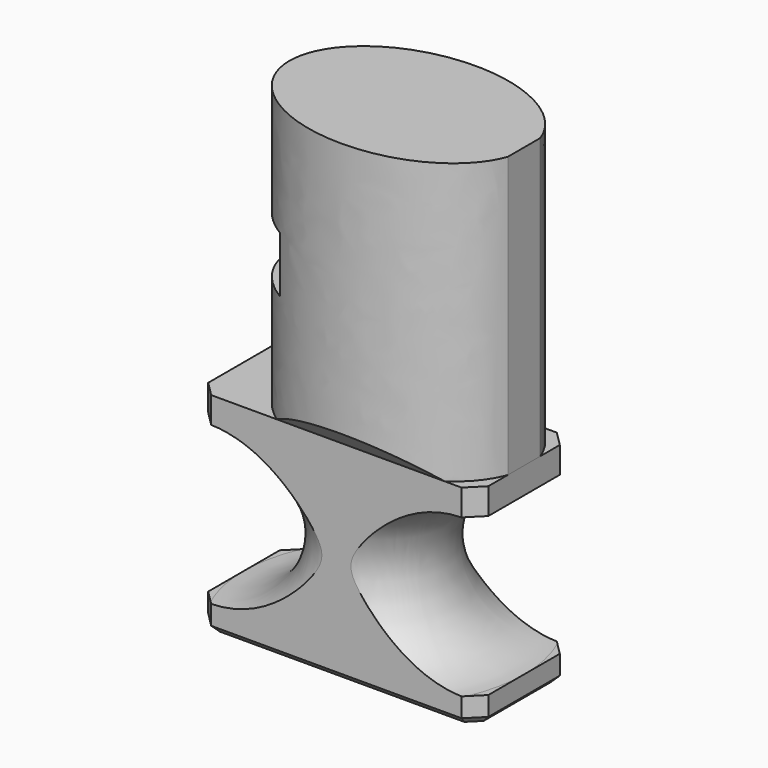
from build123d import *

# Parameters (mm, degrees)
PAD_DEPTH            = 15
SKETCH002_W          = 71.950028
SKETCH002_H          = 37.97071
POCKET_DEPTH         = 15.001
POCKET_DEPTH_BACK    = 15.001
PAD001_DEPTH         = 40
SKETCH004_W          = 12.757359
SKETCH004_H          = 12.75736
POCKET001_DEPTH      = 40.001
SKETCH005_W          = 6
SKETCH005_H          = 8
POCKET002_DEPTH      = 12.001
POCKET002_DEPTH_BACK = 12.001
POCKET003_DEPTH      = 188.238927
POCKET003_DEPTH_BACK = 188.238927
CHAMFER_SIZE         = 1


with BuildPart() as part:
    # Sketch → Pad (new body, symmetric)
    with BuildSketch(Plane.XY):
        Polygon((-20, 8.5), (20, 8.5), (20, 8.5), (20, -8.5), (-20, -8.5), align=None)
    extrude(amount=PAD_DEPTH, both=True)

    # Sketch001 → Groove (revolve, cut)
    with BuildSketch(Plane.XZ):
        with BuildLine():
            ThreePointArc((20, 11.25), (8.75, 0), (20, -11.25))
            Line((42.5, -11.25), (20, -11.25))
            Line((42.5, 11.25), (42.5, -11.25))
            Line((20, 11.25), (42.5, 11.25))
        make_face()
    revolve(axis=Axis((0, 0, 0), (0, 0, 1)), mode=Mode.SUBTRACT)

    # Sketch002 → Pocket (cut, two sides)
    with BuildSketch(Plane.XY) as pocket_sk:
        Rectangle(SKETCH002_W, SKETCH002_H)
        Polygon((-20, 6.37868), (-17.87868, 8.5), (17.87868, 8.5), (20, 6.37868), (20, -6.37868), (17.87868, -8.5), (-17.87868, -8.5), (-20, -6.37868), align=None, mode=Mode.SUBTRACT)
    extrude(amount=-POCKET_DEPTH, mode=Mode.SUBTRACT)
    extrude(pocket_sk.sketch, amount=POCKET_DEPTH_BACK, mode=Mode.SUBTRACT)

    # Sketch003 (on Face6 of Pocket) → Pad001 (join)
    with BuildSketch(Plane.XY.offset(15)):
        with BuildLine():
            add(Edge.make_bspline(
                [(20.5, 0), (20.5, 20.78461), (-5, 10.392305), (-30.5, 0), (-5, -10.392305), (20.5, -20.78461), (20.5, 0)],
                knots=[0, 0, 0, 2.094395, 2.094395, 4.18879, 4.18879, 6.283185, 6.283185, 6.283185], degree=2, weights=[1, 0.5, 1, 0.5, 1, 0.5, 1]))
        make_face()
    extrude(amount=PAD001_DEPTH)

    # Sketch004 (on Edge33 of Pad001) → Pocket001 (cut, through all)
    with BuildSketch(Plane.XY.offset(15)):
        with Locations((26.37868, 0)):
            Rectangle(SKETCH004_W, SKETCH004_H)
    extrude(amount=POCKET001_DEPTH, mode=Mode.SUBTRACT)

    # Sketch005 → Pocket002 (cut, two sides)
    with BuildSketch(Plane.XZ) as pocket002_sk:
        with Locations((-10.599911, 35)):
            Rectangle(SKETCH005_W, SKETCH005_H)
    extrude(amount=-POCKET002_DEPTH, mode=Mode.SUBTRACT)
    extrude(pocket002_sk.sketch, amount=POCKET002_DEPTH_BACK, mode=Mode.SUBTRACT)

    # Sketch006 → Pocket003 (cut, two sides)
    with BuildSketch(Plane.YZ) as pocket003_sk:
        Polygon((-12.099236, 18.599236), (-8.5, 15), (-12.099236, 15), align=None)
    pocket003 = extrude(amount=-POCKET003_DEPTH, mode=Mode.SUBTRACT) + extrude(pocket003_sk.sketch, amount=POCKET003_DEPTH_BACK, mode=Mode.SUBTRACT)

    # Mirrored: Pocket003 across Sketch006 V_Axis
    add(pocket003.mirror(Plane(origin=(0, 0, 0), x_dir=(1, 0, 0), z_dir=(0, 1, 0))), mode=Mode.SUBTRACT)

    # Chamfer
    chamfer_edges = [part.edges().sort_by_distance(p)[0] for p in [
        (0, 8.5, -15),
        (18.93934, 7.43934, -15),
        (20, 0, -15),
        (18.93934, -7.43934, -15),
        (0, -8.5, -15),
        (-18.93934, -7.43934, -15),
        (-20, 0, -15),
        (-18.93934, 7.43934, -15),
    ]]
    chamfer(chamfer_edges, length=CHAMFER_SIZE)


solid = part.part
